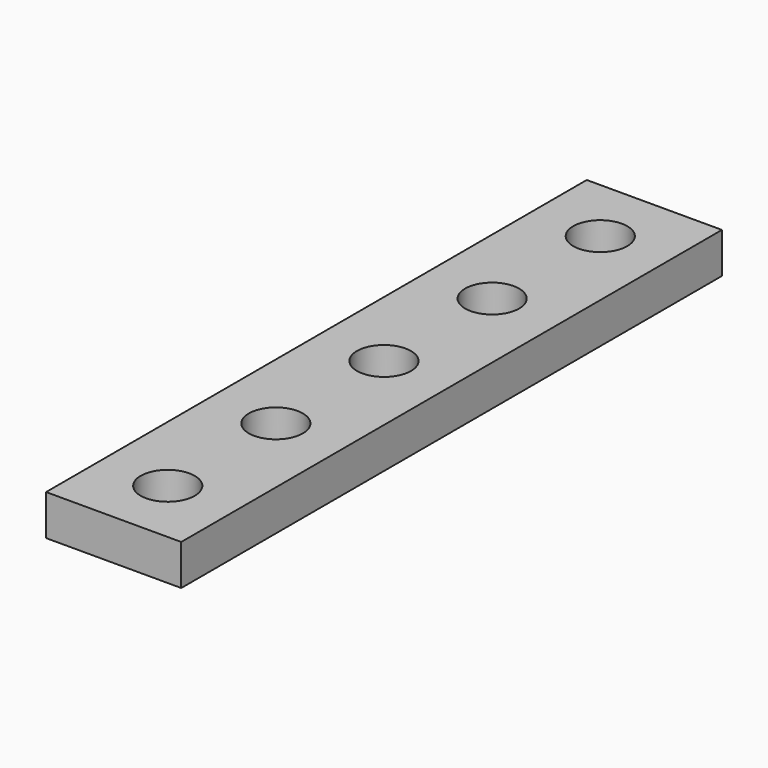
from build123d import *

# Parameters (mm, degrees)
CYLINDER003_R     = 2
CYLINDER003_DEPTH = 10
CYLINDER002_R     = 2
CYLINDER002_DEPTH = 10
CYLINDER004_R     = 2
CYLINDER004_DEPTH = 10
CYLINDER001_R     = 2
CYLINDER001_DEPTH = 10
CYLINDER_R        = 2
CYLINDER_DEPTH    = 10
BOX_W             = 10
BOX_H             = 50
BOX_DEPTH         = 3


with BuildPart() as cilindro003:
    # Cylinder003 → Cylinder003 (new body)
    with BuildSketch(Plane(origin=(5, 35, -3), x_dir=(1, 0, 0), z_dir=(0, 0, 1))):
        Circle(CYLINDER003_R)
    extrude(amount=CYLINDER003_DEPTH)


with BuildPart() as cilindro002:
    # Cylinder002 → Cylinder002 (new body)
    with BuildSketch(Plane(origin=(5, 25, -3), x_dir=(1, 0, 0), z_dir=(0, 0, 1))):
        Circle(CYLINDER002_R)
    extrude(amount=CYLINDER002_DEPTH)


with BuildPart() as cilindro004:
    # Cylinder004 → Cylinder004 (new body)
    with BuildSketch(Plane(origin=(5, 45, -3), x_dir=(1, 0, 0), z_dir=(0, 0, 1))):
        Circle(CYLINDER004_R)
    extrude(amount=CYLINDER004_DEPTH)


with BuildPart() as cilindro001:
    # Cylinder001 → Cylinder001 (new body)
    with BuildSketch(Plane(origin=(5, 15, -3), x_dir=(1, 0, 0), z_dir=(0, 0, 1))):
        Circle(CYLINDER001_R)
    extrude(amount=CYLINDER001_DEPTH)


with BuildPart() as fusion:
    # Cylinder → Cylinder (new body)
    with BuildSketch(Plane(origin=(5, 5, -3), x_dir=(1, 0, 0), z_dir=(0, 0, 1))):
        Circle(CYLINDER_R)
    extrude(amount=CYLINDER_DEPTH)

    # Fusion: union Cilindro003, Cilindro002, Cilindro004, Cilindro001
    add(cilindro003.part)
    add(cilindro002.part)
    add(cilindro004.part)
    add(cilindro001.part)


with BuildPart() as cut:
    # Box → Box (new body)
    with BuildSketch(Plane.XY):
        with Locations((5, 25)):
            Rectangle(BOX_W, BOX_H)
    extrude(amount=BOX_DEPTH)

    # Cut: cut Fusion
    add(fusion.part, mode=Mode.SUBTRACT)


solid = cut.part
